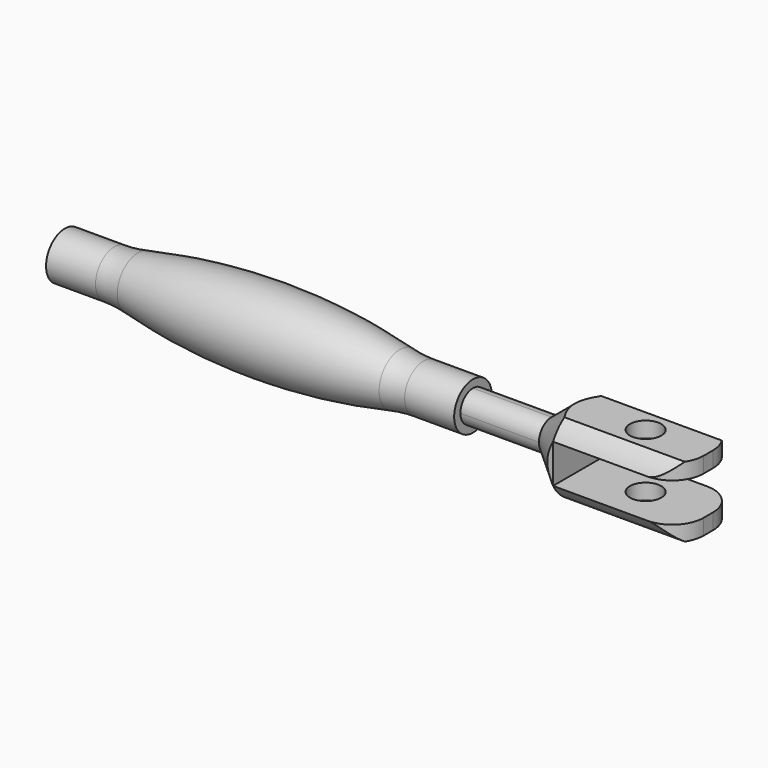
from build123d import *

# Parameters (mm, degrees)
F1_W      = 6.35
F1_H      = 6.35
F2_DEPTH  = 3.175
F3_DEPTH  = 53.975
F5_R      = 3.175
F10_DEPTH = 12.7
F6_W      = 26.67
F6_H      = 7.874
F6_W_2    = 31.75
F6_H_2    = 5.08
F11_DEPTH = 12.7
F12_W     = 3.2304283773
F12_H     = 9.7761131461
F13_DEPTH = 50.8
F15_DEPTH = 25.4


with BuildPart() as f7:
    # F0 (on Top) → F7 (revolve)
    with BuildSketch(Plane.XY):
        with BuildLine():
            Line((-41.275, 4.7625), (-41.275, 3.175))
            Line((-41.275, 3.175), (-31.2701235207, 3.175))
            ThreePointArc((-31.2701235207, 3.175), (-28.7043360575, 3.3049241257), (-26.1647972316, 3.6933673469))
            ThreePointArc((-26.1647972316, 3.6933673469), (0, 6.35), (26.1647972316, 3.6933673469))
            ThreePointArc((26.1647972316, 3.6933673469), (28.7043360575, 3.3049241257), (31.2701235207, 3.175))
            Line((31.2701235207, 3.175), (41.275, 3.175))
            Line((41.275, 3.175), (41.275, 4.7625))
            Line((41.275, 4.7625), (31.2701235207, 4.7625))
            ThreePointArc((31.2701235207, 4.7625), (28.864697774, 4.8843038678), (26.4838801247, 5.2484693878))
            ThreePointArc((26.4838801247, 5.2484693878), (0, 7.9375), (-26.4838801247, 5.2484693878))
            ThreePointArc((-26.4838801247, 5.2484693878), (-28.864697774, 4.8843038678), (-31.2701235207, 4.7625))
            Line((-31.2701235207, 4.7625), (-41.275, 4.7625))
        make_face()
    revolve(axis=Axis((1.7581520012, 0, 0), (1, 0, 0)))


with BuildPart() as f2:
    # F1 (on Top) → F2 (new body, symmetric)
    with BuildSketch(Plane.XY):
        Rectangle(F1_W, F1_H)
    extrude(amount=F2_DEPTH, both=True)


with BuildPart() as f3:
    # F8 (on face) → F3 (new body)
    with BuildSketch(Plane.YZ.offset(3.175)):
        with BuildLine():
            ThreePointArc((0, -3.175), (2.2450640303, -2.2450640303), (3.175, 0))
            ThreePointArc((3.175, 0), (2.2450640303, 2.2450640303), (0, 3.175))
            ThreePointArc((0, 3.175), (-2.2450640303, 2.2450640303), (-3.175, 0))
            ThreePointArc((-3.175, 0), (-2.2450640303, -2.2450640303), (0, -3.175))
        make_face()
    extrude(amount=F3_DEPTH)

    # F9 (on Top) → F4 (revolve)
    with BuildSketch(Plane.XY):
        Polygon((57.15, 3.175), (57.15, 0), (63.5, 0), (88.9, 0), (88.9, 8.503282658), (63.5, 8.503282658), align=None)
    revolve(axis=Axis((1.7581520012, 0, 0), (1, 0, 0)))

    # F5 (on Top) → F10 (cut, symmetric)
    with BuildSketch(Plane.XY):
        with Locations((76.2, 0)):
            Circle(F5_R)
    extrude(amount=F10_DEPTH, both=True, mode=Mode.SUBTRACT)

    # F6 (on Front) → F11 (cut, symmetric)
    with BuildSketch(Plane.XZ):
        with Locations((76.835, 0)):
            Rectangle(F6_W, F6_H)
        with Locations((74.295, -9.652)):
            Rectangle(F6_W_2, F6_H_2)
        with Locations((74.295, 9.652)):
            Rectangle(F6_W_2, F6_H_2)
    extrude(amount=F11_DEPTH, both=True, mode=Mode.SUBTRACT)

    # F12 (on face) → F13 (cut)
    with BuildSketch(Plane.YZ.offset(88.9)):
        with Locations((-9.1521795568, -0.951056573)):
            Rectangle(F12_W, F12_H)
        with Locations((9.1521795568, -0.951056573)):
            Rectangle(F12_W, F12_H)
    extrude(amount=-F13_DEPTH, mode=Mode.SUBTRACT)

    # F14 (on face) → F15 (cut, symmetric)
    with BuildSketch(Plane.XY.offset(-3.937)):
        with BuildLine():
            Line((88.9, 7.5369653682), (82.55, 7.5369653682))
            ThreePointArc((82.55, 7.5369653682), (87.0401280605, 5.6770934287), (88.9, 1.1869653682))
            Line((88.9, 1.1869653682), (88.9, 7.5369653682))
        make_face()
        with BuildLine():
            Line((88.9, -7.5369653682), (88.9, -1.1869653682))
            ThreePointArc((88.9, -1.1869653682), (87.0401280605, -5.6770934287), (82.55, -7.5369653682))
            Line((82.55, -7.5369653682), (88.9, -7.5369653682))
        make_face()
    extrude(amount=F15_DEPTH, both=True, mode=Mode.SUBTRACT)


solid = Compound([f7.part, f2.part, f3.part])
